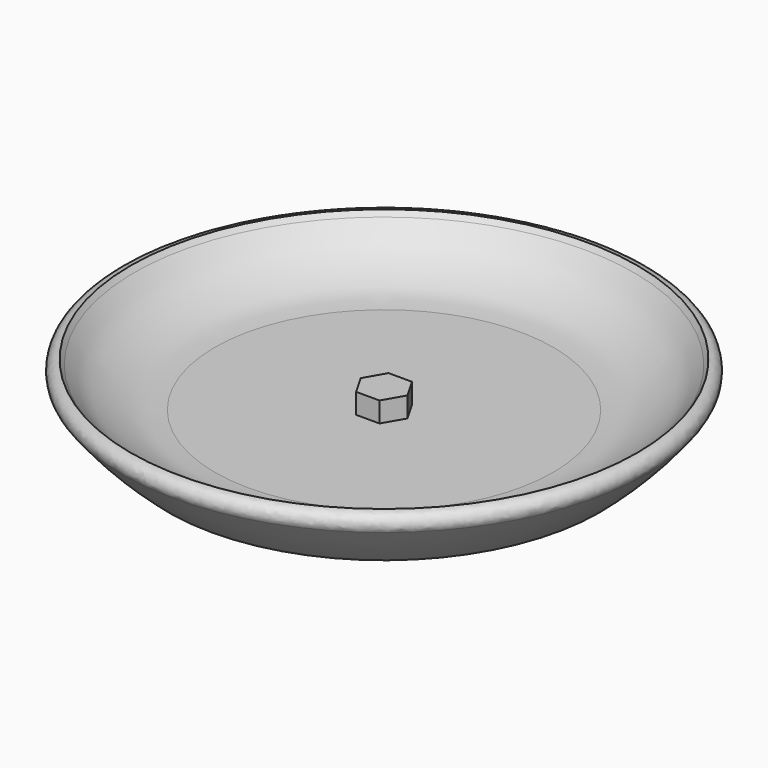
from build123d import *

# Parameters (mm, degrees)
F4_DEPTH = 5
F5_R     = 2.5
F6_R     = 25


with BuildPart() as f2:
    # F0 (on Front) → F2 (revolve)
    with BuildSketch(Plane.XZ):
        with BuildLine():
            Line((0, -62), (53.181294, -62))
            ThreePointArc((53.181294, -62), (60.868659, -54.472528), (67.5, -46))
            Line((67.5, -46), (62.5, -46))
            ThreePointArc((62.5, -46), (57.842906, -51.734401), (52.661656, -57))
            Line((52.661656, -57), (0, -57))
            Line((0, -57), (0, -62))
        make_face()
    revolve(axis=Axis((0, 0, -4.725926), (0, 0, -1)))

    # F3 (on face) → F4 (join)
    with BuildSketch(Plane.XY.offset(-57)):
        Polygon((-2.886751, -5), (2.886751, -5), (5.773503, 0), (2.886751, 5), (-2.886751, 5), (-5.773503, 0), align=None)
    extrude(amount=F4_DEPTH)

    # F5
    f5_edges = [f2.edges().sort_by_distance(p)[0] for p in [
        (-67.5, 0, -46),
    ]]
    fillet(f5_edges, radius=F5_R)

    # F6
    f6_edges = [f2.edges().sort_by_distance(p)[0] for p in [
        (-52.661656, 0, -57),
    ]]
    fillet(f6_edges, radius=F6_R)


solid = f2.part
